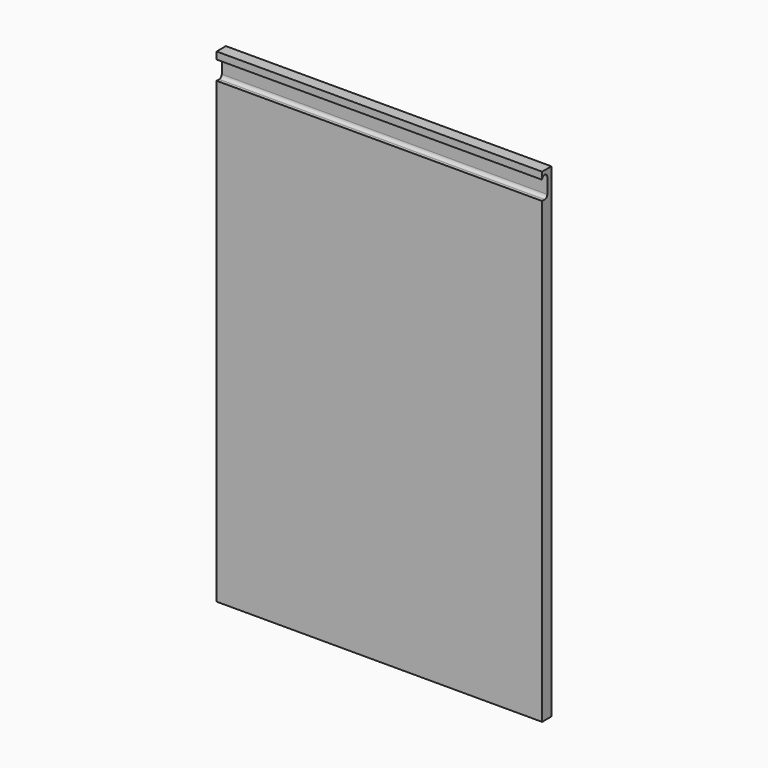
from build123d import *

# Parameters (mm, degrees)
F1_DEPTH = 18
F3_DEPTH = 555


with BuildPart() as f1:
    # F0 (on Front) → F1 (new body)
    with BuildSketch(Plane.XZ):
        Polygon((243.926708, -366.643434), (243.926708, 383.356566), (-8.073292, 383.356566), (-260.073292, 383.356566), (-260.073292, -366.643434), (-8.073292, -366.643434), align=None)
    extrude(amount=F1_DEPTH)

    # F2 (on face) → F3 (cut)
    with BuildSketch(Plane(origin=(-260.073292, 0, 0), x_dir=(0, -1, 0), z_dir=(-1, 0, 0))):
        with BuildLine():
            Line((13, 343.356566), (18, 343.356566))
            Line((18, 343.356566), (18, 372.356566))
            ThreePointArc((18, 372.356566), (13, 377.356566), (8, 372.356566))
            Line((8, 372.356566), (8, 348.356566))
            ThreePointArc((8, 348.356566), (9.464466, 344.821032), (13, 343.356566))
        make_face()
    extrude(amount=-F3_DEPTH, mode=Mode.SUBTRACT)


solid = f1.part
